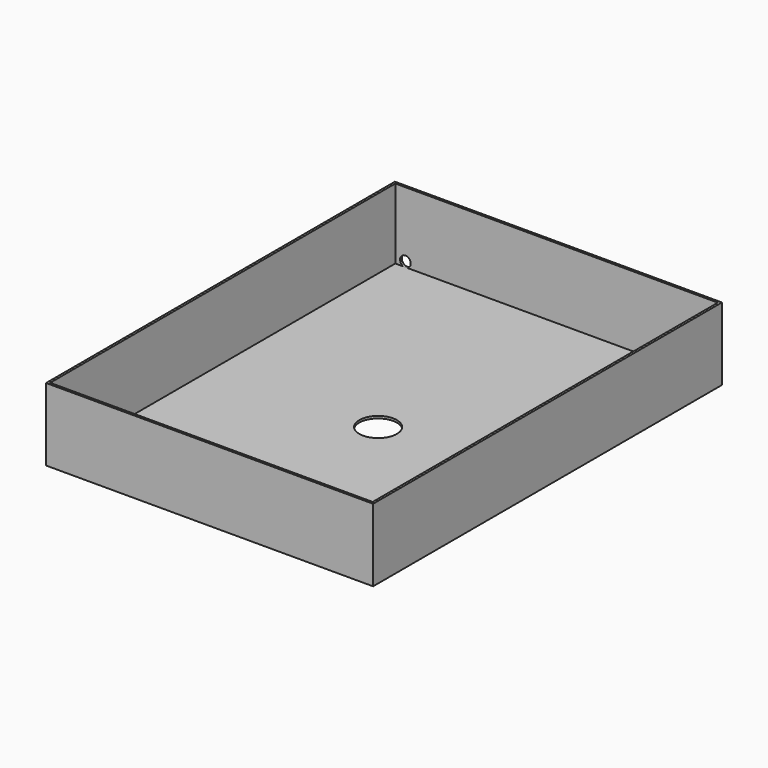
from build123d import *

# Parameters (mm, degrees)
F0_W     = 914.4
F0_H     = 203.2
F1_DEPTH = 1219.2
F2_T     = -6.35
F3_R     = 14.923
F4_DEPTH = 6.35
F5_R     = 52.492005
F6_DEPTH = 6.351


with BuildPart() as f1:
    # F0 (on Front) → F1 (new body)
    with BuildSketch(Plane.XZ):
        with Locations((457.2, 101.6)):
            Rectangle(F0_W, F0_H)
    extrude(amount=F1_DEPTH)

    # F2
    f2_openings = [f1.faces().sort_by_distance(p)[0] for p in [
        (457.2, -609.6, 203.2),
    ]]
    offset(amount=F2_T, openings=f2_openings)

    # F3 (on face) → F4 (cut)
    with BuildSketch(Plane(origin=(0, 0, 0), x_dir=(-1, 0, 0), z_dir=(0, 1, 0))):
        with Locations((-874.310315, 23.554392)):
            Circle(F3_R)
        with Locations((-34.473307, 20.203399)):
            Circle(F3_R)
    extrude(amount=-F4_DEPTH, mode=Mode.SUBTRACT)

    # F5 (on face) → F6 (cut, through all)
    with BuildSketch(Plane.XY.offset(6.35)):
        with Locations((459.850729, -633.53318)):
            Circle(F5_R)
    extrude(amount=-F6_DEPTH, mode=Mode.SUBTRACT)


solid = f1.part
